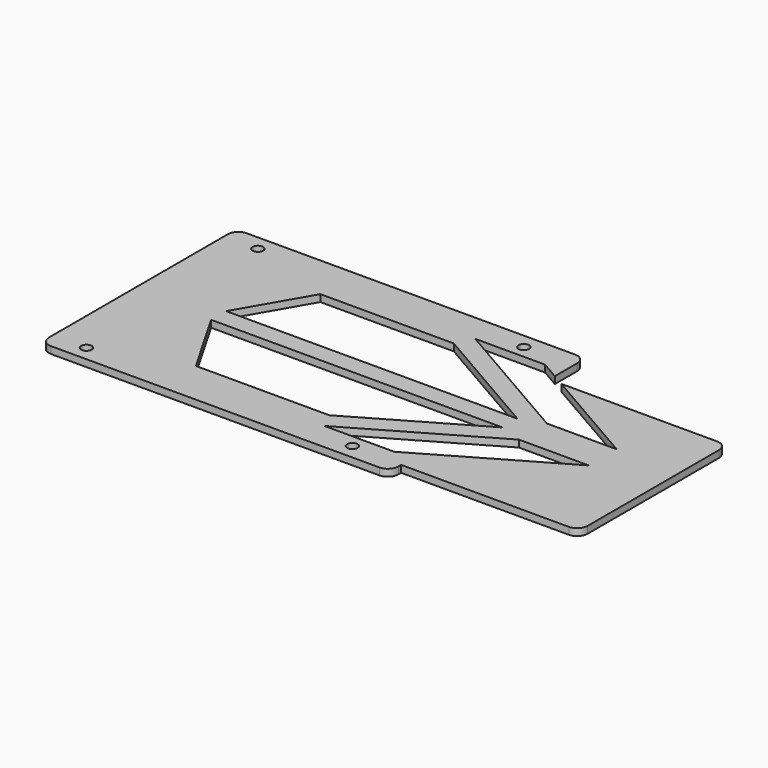
from build123d import *

# Parameters (mm, degrees)
F0_R     = 1.5
F1_DEPTH = 2
F2_R     = 3
F2_R_2   = 1.5
F3_DEPTH = 2
F7_DEPTH = 2


with BuildPart() as f1:
    # F0 (on Top) → F1 (new body)
    with BuildSketch(Plane.XY):
        with BuildLine():
            Line((97, 70), (3, 70))
            ThreePointArc((3, 70), (0.87868, 69.12132), (0, 67))
            Line((0, 67), (0, 3))
            ThreePointArc((0, 3), (0.87868, 0.87868), (3, 0))
            Line((3, 0), (97, 0))
            ThreePointArc((97, 0), (99.12132, 0.87868), (100, 3))
            Line((100, 3), (100, 4))
            Line((100, 4), (148, 4))
            ThreePointArc((148, 4), (150.12132, 4.87868), (151, 7))
            Line((151, 7), (151, 54))
            ThreePointArc((151, 54), (150.12132, 56.12132), (148, 57))
            Line((148, 57), (100, 57))
            Line((100, 57), (100, 67))
            ThreePointArc((100, 67), (99.12132, 69.12132), (97, 70))
        make_face()
        with Locations((9.65, 4.325)):
            Circle(F0_R, mode=Mode.SUBTRACT)
        with Locations((85.8, 4.325)):
            Circle(F0_R, mode=Mode.SUBTRACT)
        with Locations((9.65, 65.675)):
            Circle(F0_R, mode=Mode.SUBTRACT)
        with Locations((85.8, 65.675)):
            Circle(F0_R, mode=Mode.SUBTRACT)
    extrude(amount=-F1_DEPTH)

    # F2 (on face) → F3 (join)
    with BuildSketch(Plane(origin=(0, 0, -2), x_dir=(1, 0, 0), z_dir=(0, 0, -1))):
        with Locations((9.65, -65.675)):
            Circle(F2_R)
        with Locations((9.65, -65.675)):
            Circle(F2_R_2, mode=Mode.SUBTRACT)
        with Locations((85.8, -65.675)):
            Circle(F2_R)
        with Locations((85.8, -65.675)):
            Circle(F2_R_2, mode=Mode.SUBTRACT)
        with Locations((9.65, -4.325)):
            Circle(F2_R)
        with Locations((9.65, -4.325)):
            Circle(F2_R_2, mode=Mode.SUBTRACT)
        with Locations((85.8, -4.325)):
            Circle(F2_R)
        with Locations((85.8, -4.325)):
            Circle(F2_R_2, mode=Mode.SUBTRACT)
    extrude(amount=-F3_DEPTH)

    # F6 (on Top) → F7 (cut)
    with BuildSketch(Plane.XY):
        Polygon((34.263368, 12.735125), (72.459799, 12.735125), (106.358428, 32.306507), (22.963825, 32.306507), align=None)
        Polygon((106.358428, 37.693493), (72.459799, 57.264875), (34.263368, 57.264875), (22.963825, 37.693493), align=None)
        Polygon((94.823405, 8), (132.928523, 30), (112.928523, 30), (74.823405, 8), align=None)
        Polygon((112.928523, 40), (132.928523, 40), (94.823405, 62), (74.823405, 62), align=None)
    extrude(amount=-F7_DEPTH, mode=Mode.SUBTRACT)


solid = f1.part
